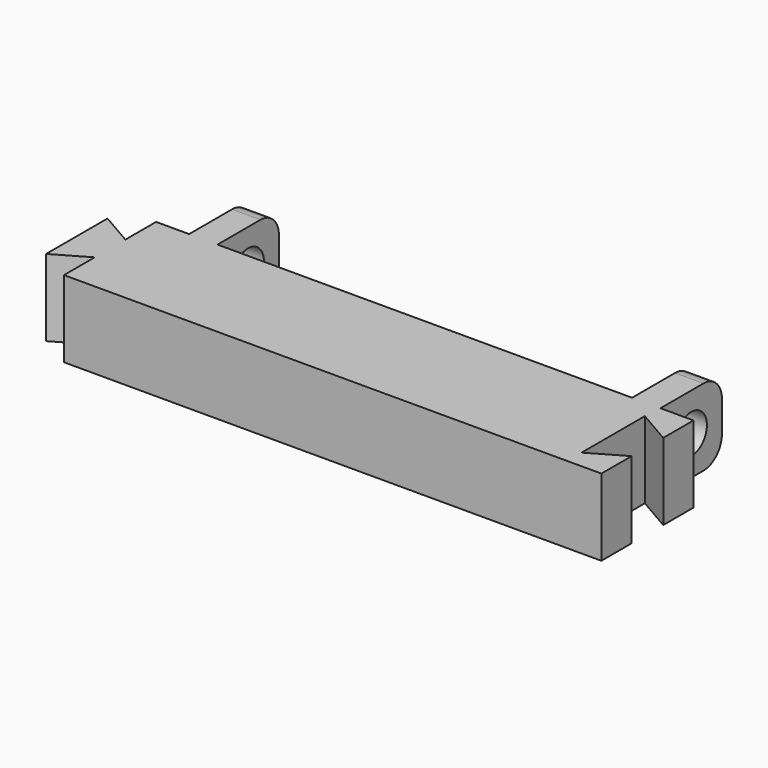
from build123d import *

# Parameters (mm, degrees)
PAD001_DEPTH = 20
SKETCH002_R  = 5.1
POCKET_DEPTH = 200
FILLET_R     = 6


with BuildPart() as part:
    # Sketch001 → Pad001 (new body)
    with BuildSketch(Plane.XY):
        Polygon((-70, 15), (-61.4, 15), (-61.4, 35), (-54, 35), (-54, 15), (54, 15), (54, 35), (61.4, 35), (61.4, 15), (70, 15), (70, 5.15), (61.079938, 10.3), (61.079938, -10.3), (70, -5.15), (70, -15), (-70, -15), (-70, -5), (-78.660254, -10), (-78.660254, 10), (-70, 5), align=None)
    extrude(amount=PAD001_DEPTH)

    # Sketch002 (on Face9 of Pad001) → Pocket (cut)
    with BuildSketch(Plane.YZ.offset(61.4)):
        with Locations((25, 10)):
            Circle(SKETCH002_R)
    extrude(amount=-POCKET_DEPTH, mode=Mode.SUBTRACT)

    # Fillet
    fillet_edges = [part.edges().sort_by_distance(p)[0] for p in [
        (57.7, 35, 20),
        (57.7, 35, 0),
        (-57.7, 35, 0),
        (-57.7, 35, 20),
    ]]
    fillet(fillet_edges, radius=FILLET_R)


solid = part.part
